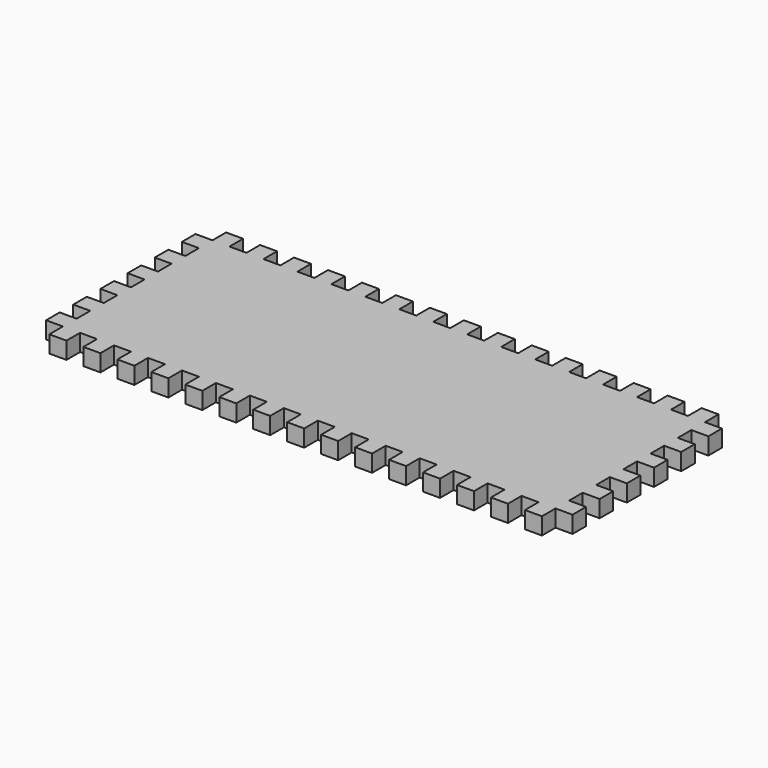
from build123d import *

# Parameters (mm, degrees)
F0_W     = 10
F0_H     = 10
F0_W_2   = 0.086959
F1_DEPTH = 10


with BuildPart() as f1:
    # F0 (on Top) → F1 (new body)
    with BuildSketch(Plane.XY):
        with Locations((-140, -60)):
            Rectangle(F0_W, F0_H)
        with Locations((-150, 50)):
            Rectangle(F0_W, F0_H)
        Polygon((-155, 25), (-145.130813, 25), (-145, 25), (-145, 35), (-155, 35), align=None)
        Polygon((-155, 5), (-145, 5), (-145, 15), (-145.130813, 15), (-155, 15), align=None)
        with Locations((-150, -10)):
            Rectangle(F0_W, F0_H)
        with Locations((-150, -30)):
            Rectangle(F0_W, F0_H)
        Polygon((-155, -55), (-145.086959, -55), (-145, -55), (-145, -45), (-155, -45), align=None)
        with Locations((-140, -60)):
            Rectangle(F0_W, F0_H)
        with Locations((150, -50)):
            Rectangle(F0_W, F0_H)
        with Locations((-140, 60)):
            Rectangle(F0_W, F0_H)
        with Locations((-120, 60)):
            Rectangle(F0_W, F0_H)
        with Locations((-100, 60)):
            Rectangle(F0_W, F0_H)
        with Locations((-80, 60)):
            Rectangle(F0_W, F0_H)
        with Locations((-60, 60)):
            Rectangle(F0_W, F0_H)
        with Locations((-40, 60)):
            Rectangle(F0_W, F0_H)
        with Locations((-20, 60)):
            Rectangle(F0_W, F0_H)
        Polygon((-5, 65), (-5, 55), (-5, 54.502327), (5, 54.502327), (5, 55), (5, 65), align=None)
        with Locations((20, 60)):
            Rectangle(F0_W, F0_H)
        with Locations((40, 60)):
            Rectangle(F0_W, F0_H)
        with Locations((60, 60)):
            Rectangle(F0_W, F0_H)
        Polygon((75, 65), (75, 55), (85, 55), (85, 55.006977), (85, 65), align=None)
        Polygon((95, 65), (95, 55.006977), (95, 55), (105, 55), (105, 65), align=None)
        with Locations((120, 60)):
            Rectangle(F0_W, F0_H)
        with Locations((140, 60)):
            Rectangle(F0_W, F0_H)
        with Locations((-120, -60)):
            Rectangle(F0_W, F0_H)
        with Locations((-100, -60)):
            Rectangle(F0_W, F0_H)
        with Locations((-80, -60)):
            Rectangle(F0_W, F0_H)
        with Locations((-60, -60)):
            Rectangle(F0_W, F0_H)
        with Locations((-40, -60)):
            Rectangle(F0_W, F0_H)
        with Locations((-20, -60)):
            Rectangle(F0_W, F0_H)
        with Locations((0, -60)):
            Rectangle(F0_W, F0_H)
        with Locations((20, -60)):
            Rectangle(F0_W, F0_H)
        with Locations((40, -60)):
            Rectangle(F0_W, F0_H)
        with Locations((60, -60)):
            Rectangle(F0_W, F0_H)
        with Locations((80, -60)):
            Rectangle(F0_W, F0_H)
        with Locations((100, -60)):
            Rectangle(F0_W, F0_H)
        with Locations((120, -60)):
            Rectangle(F0_W, F0_H)
        with Locations((140, -60)):
            Rectangle(F0_W, F0_H)
        with Locations((150, 50)):
            Rectangle(F0_W, F0_H)
        with Locations((150, 30)):
            Rectangle(F0_W, F0_H)
        with Locations((150, 10)):
            Rectangle(F0_W, F0_H)
        with Locations((150, -10)):
            Rectangle(F0_W, F0_H)
        with Locations((150, -30)):
            Rectangle(F0_W, F0_H)
        Polygon((-145, -45), (-145, -55), (-135, -55), (-125, -55), (-115, -55), (-105, -55), (-95, -55), (-85, -55), (-75, -55), (-65, -55), (-55, -55), (-45, -55), (-35, -55), (-25, -55), (-15, -55), (-5, -55), (5, -55), (15, -55), (25, -55), (35, -55), (45, -55), (55, -55), (65, -55), (75, -55), (85, -55), (95, -55), (105, -55), (115, -55), (125, -55), (135, -55), (145, -55), (145, -45), (145, -35), (145, -25), (145, -15), (145, -5), (145, 5), (145, 15), (145, 25), (145, 35), (145, 45), (145, 55), (135, 55), (125, 55), (115, 55), (105, 55), (95, 55), (95, 55.006977), (85, 55.006977), (85, 55), (75, 55), (65, 55), (55, 55), (45, 55), (35, 55), (25, 55), (15, 55), (5, 55), (5, 54.502327), (-5, 54.502327), (-5, 55), (-15, 55), (-25, 55), (-35, 55), (-45, 55), (-55, 55), (-65, 55), (-75, 55), (-85, 55), (-95, 55), (-105, 55), (-115, 55), (-125, 55), (-135, 55), (-145, 55), (-145, 45), (-145, 35), (-145, 25), (-145.130813, 25), (-145.130813, 15), (-145, 15), (-145, 5), (-145, -5), (-145, -15), (-145, -25), (-145, -35), align=None)
        with Locations((-145.043479, -60)):
            Rectangle(F0_W_2, F0_H)
        with Locations((-140, -60)):
            Rectangle(F0_W, F0_H)
        Polygon((-155, -55), (-145.086959, -55), (-145, -55), (-145, -45), (-155, -45), align=None)
        Polygon((-145, -45), (-145, -55), (-135, -55), (-125, -55), (-115, -55), (-105, -55), (-95, -55), (-85, -55), (-75, -55), (-65, -55), (-55, -55), (-45, -55), (-35, -55), (-25, -55), (-15, -55), (-5, -55), (5, -55), (15, -55), (25, -55), (35, -55), (45, -55), (55, -55), (65, -55), (75, -55), (85, -55), (95, -55), (105, -55), (115, -55), (125, -55), (135, -55), (145, -55), (145, -45), (145, -35), (145, -25), (145, -15), (145, -5), (145, 5), (145, 15), (145, 25), (145, 35), (145, 45), (145, 55), (135, 55), (125, 55), (115, 55), (105, 55), (95, 55), (95, 55.006977), (85, 55.006977), (85, 55), (75, 55), (65, 55), (55, 55), (45, 55), (35, 55), (25, 55), (15, 55), (5, 55), (5, 54.502327), (-5, 54.502327), (-5, 55), (-15, 55), (-25, 55), (-35, 55), (-45, 55), (-55, 55), (-65, 55), (-75, 55), (-85, 55), (-95, 55), (-105, 55), (-115, 55), (-125, 55), (-135, 55), (-145, 55), (-145, 45), (-145, 35), (-145, 25), (-145.130813, 25), (-145.130813, 15), (-145, 15), (-145, 5), (-145, -5), (-145, -15), (-145, -25), (-145, -35), align=None)
        with Locations((-120, -60)):
            Rectangle(F0_W, F0_H)
        with Locations((-150, -30)):
            Rectangle(F0_W, F0_H)
        with Locations((-100, -60)):
            Rectangle(F0_W, F0_H)
        with Locations((-150, -10)):
            Rectangle(F0_W, F0_H)
        with Locations((-80, -60)):
            Rectangle(F0_W, F0_H)
        Polygon((-155, 5), (-145, 5), (-145, 15), (-145.130813, 15), (-155, 15), align=None)
        with Locations((-60, -60)):
            Rectangle(F0_W, F0_H)
        Polygon((-155, 25), (-145.130813, 25), (-145, 25), (-145, 35), (-155, 35), align=None)
        with Locations((-40, -60)):
            Rectangle(F0_W, F0_H)
        with Locations((-20, -60)):
            Rectangle(F0_W, F0_H)
        with Locations((-150, 50)):
            Rectangle(F0_W, F0_H)
        with Locations((-140, 60)):
            Rectangle(F0_W, F0_H)
        with Locations((0, -60)):
            Rectangle(F0_W, F0_H)
        with Locations((-120, 60)):
            Rectangle(F0_W, F0_H)
        with Locations((20, -60)):
            Rectangle(F0_W, F0_H)
        with Locations((-100, 60)):
            Rectangle(F0_W, F0_H)
        with Locations((40, -60)):
            Rectangle(F0_W, F0_H)
        with Locations((-80, 60)):
            Rectangle(F0_W, F0_H)
        with Locations((60, -60)):
            Rectangle(F0_W, F0_H)
        with Locations((-60, 60)):
            Rectangle(F0_W, F0_H)
        with Locations((80, -60)):
            Rectangle(F0_W, F0_H)
        with Locations((-40, 60)):
            Rectangle(F0_W, F0_H)
        with Locations((100, -60)):
            Rectangle(F0_W, F0_H)
        with Locations((-20, 60)):
            Rectangle(F0_W, F0_H)
        with Locations((120, -60)):
            Rectangle(F0_W, F0_H)
        Polygon((-5, 65), (-5, 55), (-5, 54.502327), (5, 54.502327), (5, 55), (5, 65), align=None)
        with Locations((140, -60)):
            Rectangle(F0_W, F0_H)
        with Locations((150, -50)):
            Rectangle(F0_W, F0_H)
        with Locations((150, -30)):
            Rectangle(F0_W, F0_H)
        with Locations((20, 60)):
            Rectangle(F0_W, F0_H)
        with Locations((150, -10)):
            Rectangle(F0_W, F0_H)
        with Locations((40, 60)):
            Rectangle(F0_W, F0_H)
        with Locations((150, 10)):
            Rectangle(F0_W, F0_H)
        with Locations((60, 60)):
            Rectangle(F0_W, F0_H)
        with Locations((150, 30)):
            Rectangle(F0_W, F0_H)
        Polygon((75, 65), (75, 55), (85, 55), (85, 55.006977), (85, 65), align=None)
        with Locations((150, 50)):
            Rectangle(F0_W, F0_H)
        with Locations((140, 60)):
            Rectangle(F0_W, F0_H)
        Polygon((95, 65), (95, 55.006977), (95, 55), (105, 55), (105, 65), align=None)
        with Locations((120, 60)):
            Rectangle(F0_W, F0_H)
    extrude(amount=F1_DEPTH)


solid = f1.part
